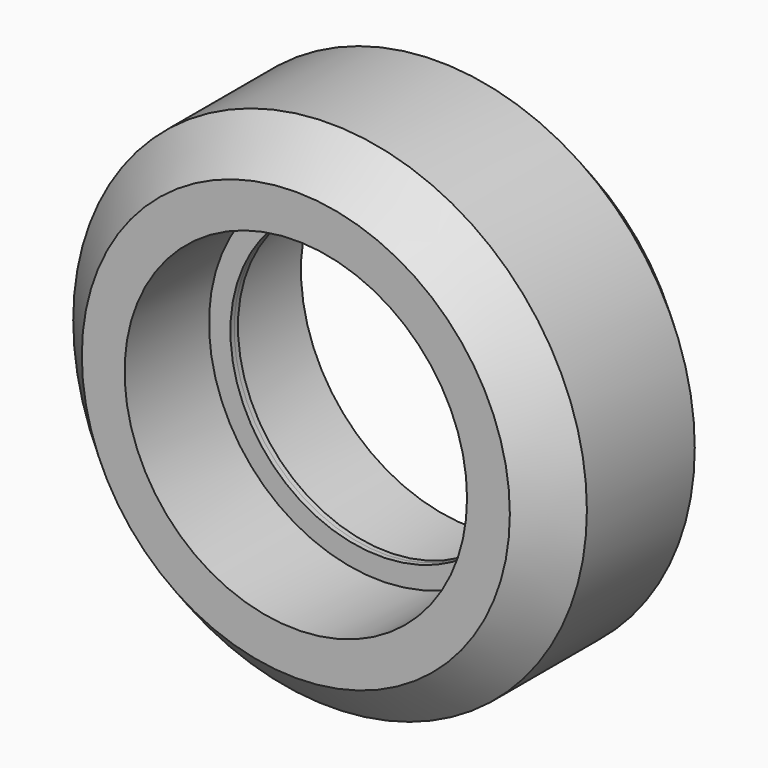
from build123d import *

# Parameters (mm, degrees)
F0_R     = 12
F0_R_2   = 8
F1_DEPTH = 5.15
F2_DEPTH = 5.15
F0_R_3   = 7
F3_DEPTH = 0.22
F4_DEPTH = 0.22
F5_SIZE  = 2


with BuildPart() as f1:
    # F0 (on Front) → F1 (new body)
    with BuildSketch(Plane.XZ):
        Circle(F0_R)
        Circle(F0_R_2, mode=Mode.SUBTRACT)
    extrude(amount=F1_DEPTH)

    # F0 (on Front) → F2 (join)
    with BuildSketch(Plane.XZ):
        Circle(F0_R)
        Circle(F0_R_2, mode=Mode.SUBTRACT)
    extrude(amount=-F2_DEPTH)

    # F0 (on Front) → F3 (join)
    with BuildSketch(Plane.XZ):
        Circle(F0_R_2)
        Circle(F0_R_3, mode=Mode.SUBTRACT)
    extrude(amount=F3_DEPTH)

    # F0 (on Front) → F4 (join)
    with BuildSketch(Plane.XZ):
        Circle(F0_R_2)
        Circle(F0_R_3, mode=Mode.SUBTRACT)
    extrude(amount=-F4_DEPTH)

    # F5
    f5_edges = [f1.edges().sort_by_distance(p)[0] for p in [
        (-12, -5.15, 0),
        (-12, 5.15, 0),
    ]]
    chamfer(f5_edges, length=F5_SIZE)


solid = f1.part
